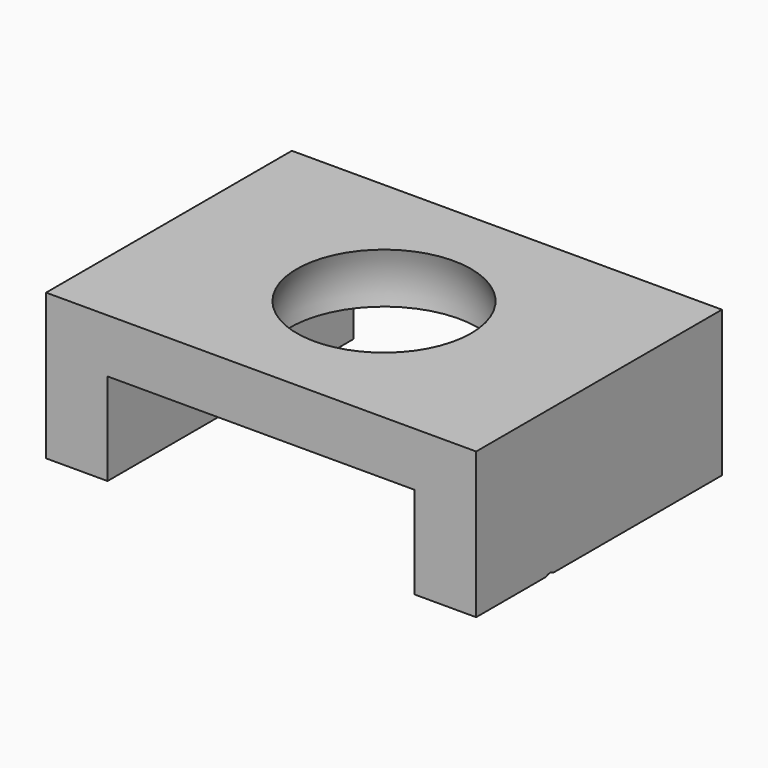
from build123d import *

# Parameters (mm, degrees)
BOX006_W                = 21
BOX006_H                = 17
BOX006_DEPTH            = 12
CYLINDER005_R           = 2.5
CYLINDER005_DEPTH       = 10
CYLINDER004_R           = 0.25
CYLINDER004_DEPTH       = 10
CYLINDER004_PITCH_ANGLE = 90
CYLINDER003_R           = 0.25
CYLINDER003_DEPTH       = 10
CYLINDER003_PITCH_ANGLE = 90
BOX002_W                = 6.5
BOX002_H                = 4.8
BOX002_DEPTH            = 1
BOX003_W                = 10
BOX003_H                = 12
BOX003_DEPTH            = 3
BOX001_W                = 14
BOX001_H                = 10
BOX001_DEPTH            = 7.25


with BuildPart() as cube006:
    # Box006 → Box006 (new body)
    with BuildSketch(Plane(origin=(-9, -7, -3.5), x_dir=(1, 0, 0), z_dir=(0, 0, 1))):
        with Locations((10.5, 8.5)):
            Rectangle(BOX006_W, BOX006_H)
    extrude(amount=BOX006_DEPTH)


with BuildPart() as cylinder005:
    # Cylinder005 → Cylinder005 (new body)
    with BuildSketch(Plane.XY.offset(0.5)):
        Circle(CYLINDER005_R)
    extrude(amount=CYLINDER005_DEPTH)


with BuildPart() as fusion004:
    # Sphere001 → Sphere001 (revolve)
    with BuildSketch(Plane.XZ):
        with BuildLine():
            ThreePointArc((0, -3.1), (3.1, 0), (0, 3.1))
            Line((0, 3.1), (0, -3.1))
        make_face()
    revolve(axis=Axis((0, 0, 0), (0, 0, 1)))

    # Fusion004: union Cylinder005
    add(cylinder005.part)


with BuildPart() as cylinder004:
    # Cylinder004 → Cylinder004 (new body)
    with BuildSketch(Plane.XY):
        Circle(CYLINDER004_R)
    extrude(amount=CYLINDER004_DEPTH)


with BuildPart() as cylinder004_1:
    # Cylinder004 pitch: moved
    add(cylinder004.part.rotate(Axis((0, 0, 0), (0, 1, 0)), CYLINDER004_PITCH_ANGLE))


with BuildPart() as cylinder004_2:
    # Cylinder004 placement: moved
    add(cylinder004_1.part.moved(Location((0, -2, -3.7))))


with BuildPart() as fusion:
    # Cylinder003 → Cylinder003 (new body)
    with BuildSketch(Plane.XY):
        Circle(CYLINDER003_R)
    extrude(amount=CYLINDER003_DEPTH)


with BuildPart() as fusion_1:
    # Cylinder003 pitch: moved
    add(fusion.part.rotate(Axis((0, 0, 0), (0, 1, 0)), CYLINDER003_PITCH_ANGLE))


with BuildPart() as fusion_2:
    # Cylinder003 placement: moved
    add(fusion_1.part.moved(Location((-11, 2, -3.7))))

    # Fusion: union Cylinder004
    add(cylinder004_2.part)


with BuildPart() as fusion001:
    # Box002 → Box002 (new body)
    with BuildSketch(Plane(origin=(-3.25, -2.4, -4.2), x_dir=(1, 0, 0), z_dir=(0, 0, 1))):
        with Locations((3.25, 2.4)):
            Rectangle(BOX002_W, BOX002_H)
    extrude(amount=BOX002_DEPTH)

    # Fusion001: union Fusion
    add(fusion_2.part)


with BuildPart() as cube003:
    # Box003 → Box003 (new body)
    with BuildSketch(Plane(origin=(-5, -6, -3.5), x_dir=(1, 0, 0), z_dir=(0, 0, 1))):
        with Locations((5, 6)):
            Rectangle(BOX003_W, BOX003_H)
    extrude(amount=BOX003_DEPTH)


with BuildPart() as ball_and_screw_holder:
    # Box001 → Box001 (new body)
    with BuildSketch(Plane(origin=(-7, -5, -6), x_dir=(1, 0, 0), z_dir=(0, 0, 1))):
        with Locations((7, 5)):
            Rectangle(BOX001_W, BOX001_H)
    extrude(amount=BOX001_DEPTH)

    # Cut: cut Cube003
    add(cube003.part, mode=Mode.SUBTRACT)

    # Cut001: cut Fusion001
    add(fusion001.part, mode=Mode.SUBTRACT)

    # Cut002: cut Fusion004
    add(fusion004.part, mode=Mode.SUBTRACT)

    # Common: intersect Cube006
    add(cube006.part, mode=Mode.INTERSECT)


solid = ball_and_screw_holder.part
